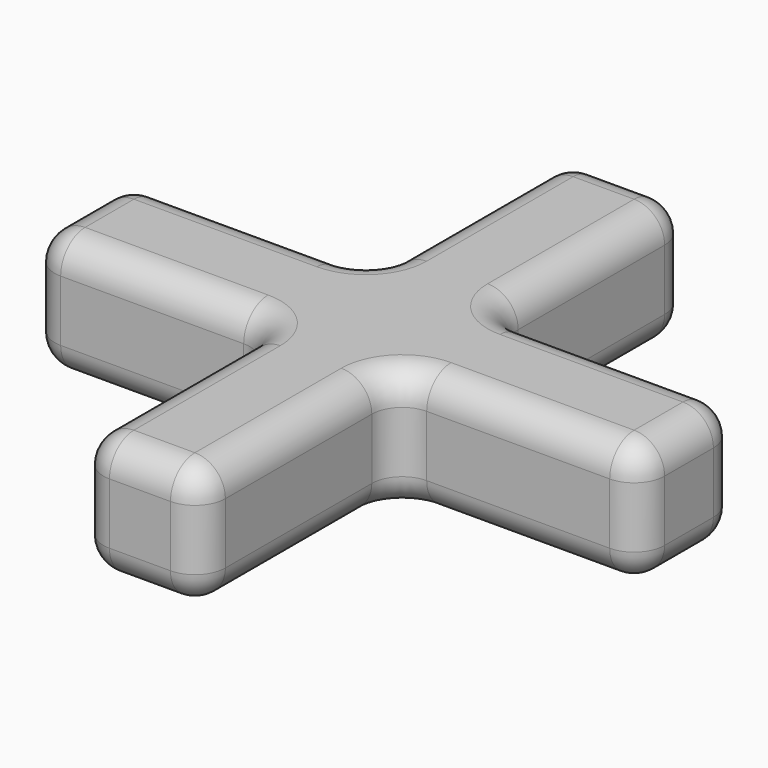
from build123d import *

# Parameters (mm, degrees)
F1_DEPTH = 10
F2_R     = 5


with BuildPart() as f1:
    # F0 (on Top) → F1 (new body, symmetric)
    with BuildSketch(Plane.XY):
        with BuildLine():
            Line((-5, -50), (5, -50))
            ThreePointArc((5, -50), (8.5355339059, -48.5355339059), (10, -45))
            Line((10, -45), (10, -15))
            ThreePointArc((10, -15), (11.4644660941, -11.4644660941), (15, -10))
            Line((15, -10), (45, -10))
            ThreePointArc((45, -10), (48.5355339059, -8.5355339059), (50, -5))
            Line((50, -5), (50, 5))
            ThreePointArc((50, 5), (48.5355339059, 8.5355339059), (45, 10))
            Line((45, 10), (15, 10))
            ThreePointArc((15, 10), (11.4644660941, 11.4644660941), (10, 15))
            Line((10, 15), (10, 45))
            ThreePointArc((10, 45), (8.5355339059, 48.5355339059), (5, 50))
            Line((5, 50), (-5, 50))
            ThreePointArc((-5, 50), (-8.5355339059, 48.5355339059), (-10, 45))
            Line((-10, 45), (-10, 15))
            ThreePointArc((-10, 15), (-11.4644660941, 11.4644660941), (-15, 10))
            Line((-15, 10), (-45, 10))
            ThreePointArc((-45, 10), (-48.5355339059, 8.5355339059), (-50, 5))
            Line((-50, 5), (-50, -5))
            ThreePointArc((-50, -5), (-48.5355339059, -8.5355339059), (-45, -10))
            Line((-45, -10), (-15, -10))
            ThreePointArc((-15, -10), (-11.4644660941, -11.4644660941), (-10, -15))
            Line((-10, -15), (-10, -45))
            ThreePointArc((-10, -45), (-8.5355339059, -48.5355339059), (-5, -50))
        make_face()
    extrude(amount=F1_DEPTH, both=True)

    # F2
    f2_edges = [f1.edges().sort_by_distance(p)[0] for p in [
        (-30, -10, 10),
        (-11.464466, -11.464466, 10),
        (-10, -30, 10),
        (-8.535534, -48.535534, 10),
        (0, -50, 10),
        (8.535534, -48.535534, 10),
        (10, -30, 10),
        (11.464466, -11.464466, 10),
        (30, -10, 10),
        (48.535534, -8.535534, 10),
        (50, 0, 10),
        (48.535534, 8.535534, 10),
        (30, 10, 10),
        (11.464466, 11.464466, 10),
        (10, 30, 10),
        (8.535534, 48.535534, 10),
        (0, 50, 10),
        (-8.535534, 48.535534, 10),
        (-10, 30, 10),
        (-11.464466, 11.464466, 10),
        (-30, 10, 10),
        (-48.535534, 8.535534, 10),
        (-50, 0, 10),
        (-48.535534, -8.535534, 10),
        (-30, -10, -10),
        (-11.464466, -11.464466, -10),
        (-10, -30, -10),
        (-8.535534, -48.535534, -10),
        (0, -50, -10),
        (8.535534, -48.535534, -10),
        (10, -30, -10),
        (11.464466, -11.464466, -10),
        (30, -10, -10),
        (48.535534, -8.535534, -10),
        (50, 0, -10),
        (48.535534, 8.535534, -10),
        (30, 10, -10),
        (11.464466, 11.464466, -10),
        (10, 30, -10),
        (8.535534, 48.535534, -10),
        (0, 50, -10),
        (-8.535534, 48.535534, -10),
        (-10, 30, -10),
        (-11.464466, 11.464466, -10),
        (-30, 10, -10),
        (-48.535534, 8.535534, -10),
        (-50, 0, -10),
        (-48.535534, -8.535534, -10),
    ]]
    fillet(f2_edges, radius=F2_R)


solid = f1.part
